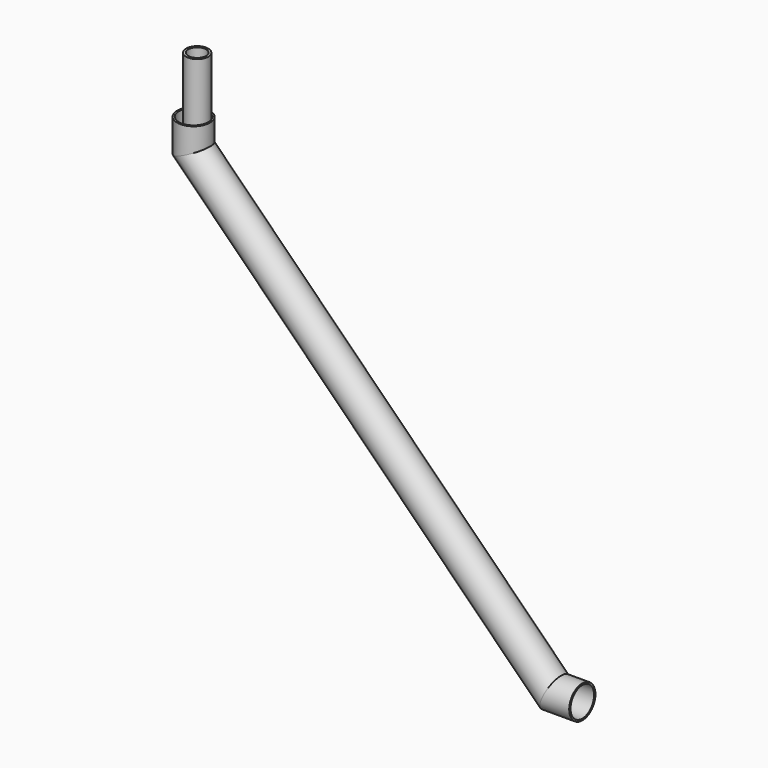
from build123d import *

# Parameters (mm, degrees)
F0_R   = 29.5
F0_R_2 = 26.5
F4_R   = 20
F4_R_2 = 16


with BuildPart() as f2:
    # F2: sweep along a path in F1
    with BuildLine(Plane.XZ) as f2_path:
        Line((0, 0), (0, -50))
        Line((0, -50), (650, -700))
        Line((650, -700), (700, -700))
    # F0 (on Top) → F2 (sweep)
    with BuildSketch(Plane.XY):
        Circle(F0_R)
        Circle(F0_R_2, mode=Mode.SUBTRACT)
    sweep(path=f2_path.line, transition=Transition.RIGHT)

    # F5: sweep along a path in F3
    with BuildLine(Plane.XZ) as f5_path:
        Line((6.5, 103.635057807), (6.5, 0))
        Line((6.5, 0), (6.5, -39.0233405971))
        ThreePointArc((6.5, -39.0233405971), (11.4009992719, -63.6623277878), (25.3578643763, -84.5502525317))
        Line((25.3578643763, -84.5502525317), (566.9646715629, -626.1570597184))
    # F4 (on Top) → F5 (sweep)
    with BuildSketch(Plane.XY):
        with Locations((6.5, 0)):
            Circle(F4_R)
        with Locations((6.5, 0)):
            Circle(F4_R_2, mode=Mode.SUBTRACT)
    sweep(path=f5_path.line)


solid = f2.part
